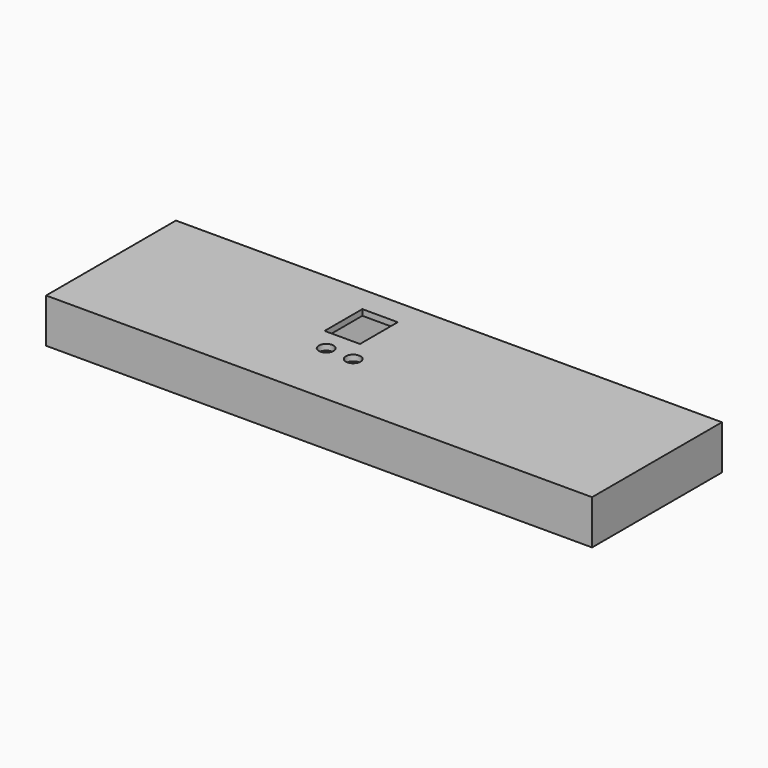
from build123d import *

# Parameters (mm, degrees)
SKETCH_W        = 185
SKETCH_H        = 55
PAD_DEPTH       = 15
SKETCH001_R     = 2.5
SKETCH001_W     = 12
SKETCH001_H     = 16
POCKET_DEPTH    = 5
SKETCH002_W     = 12
SKETCH002_H     = 11
POCKET001_DEPTH = 5
SKETCH003_W     = 180.277405
SKETCH003_H     = 49.743215
POCKET002_DEPTH = 13


with BuildPart() as part:
    # Sketch → Pad (new body)
    with BuildSketch(Plane.XY):
        with Locations((0.0037, 0.153081)):
            Rectangle(SKETCH_W, SKETCH_H)
    extrude(amount=PAD_DEPTH)

    # Sketch001 (on Face6 of Pad) → Pocket (cut)
    with BuildSketch(Plane.XY.offset(15)):
        with Locations((-15.745548, -4.652688)):
            Circle(SKETCH001_R)
        with Locations((-6.327735, -4.978416)):
            Circle(SKETCH001_R)
        with Locations((-16.279421, 10.837662)):
            Rectangle(SKETCH001_W, SKETCH001_H)
    extrude(amount=-POCKET_DEPTH, mode=Mode.SUBTRACT)

    # Sketch002 (on Face1 of Pad) → Pocket001 (cut)
    with BuildSketch(Plane(origin=(-92.4963, 0, 0), x_dir=(0, -1, 0), z_dir=(-1, 0, 0))):
        with Locations((-14.820227, 5.5)):
            Rectangle(SKETCH002_W, SKETCH002_H)
    extrude(amount=-POCKET001_DEPTH, mode=Mode.SUBTRACT)

    # Sketch003 (on Face5 of Pad) → Pocket002 (cut)
    with BuildSketch(Plane(origin=(0, 0, 0), x_dir=(1, 0, 0), z_dir=(0, 0, -1))):
        with Locations((-0.108376, 0.060574)):
            Rectangle(SKETCH003_W, SKETCH003_H)
    extrude(amount=-POCKET002_DEPTH, mode=Mode.SUBTRACT)


solid = part.part
